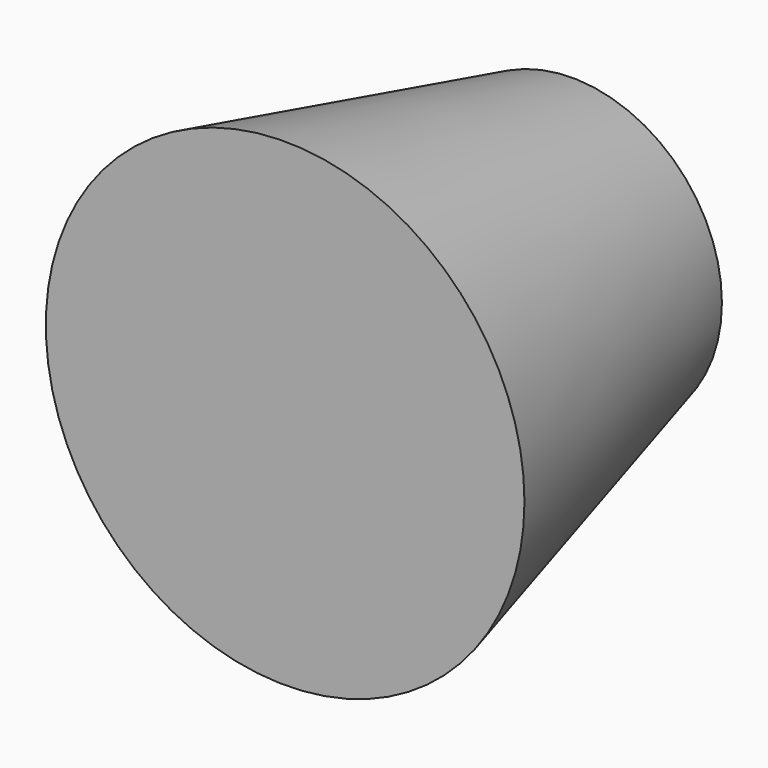
from build123d import *

# Parameters (mm, degrees)
F0_R = 50.8
F2_R = 31.75


with BuildPart() as f3:
    # F0 (on Front) → F3 section 0
    with BuildSketch(Plane.XZ):
        Circle(F0_R)
    # F2 (on offset) → F3 section 1
    with BuildSketch(Plane.XZ.offset(-76.2)):
        Circle(F2_R)
    loft()


solid = f3.part
